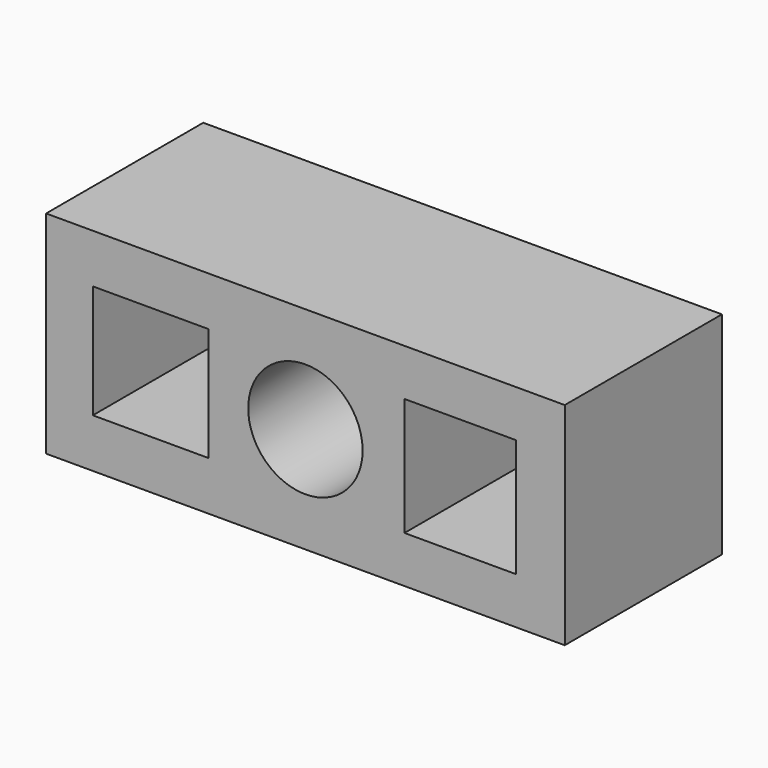
from build123d import *

# Parameters (mm, degrees)
F0_W     = 67.058742
F0_H     = 27.341548
F1_DEPTH = 25.4
F2_W     = 14.965903
F2_H     = 14.678094
F3_DEPTH = 25.4
F4_R     = 7.396664
F5_DEPTH = 25.4
F6_W     = 14.390292
F6_H     = 15.253704
F7_DEPTH = 25.4


with BuildPart() as f1:
    # F0 (on Front) → F1 (new body)
    with BuildSketch(Plane.XZ):
        Rectangle(F0_W, F0_H)
    extrude(amount=F1_DEPTH)

    # F2 (on face) → F3 (cut)
    with BuildSketch(Plane.XZ.offset(25.4)):
        with Locations((-20.002499, 0)):
            Rectangle(F2_W, F2_H)
    extrude(amount=-F3_DEPTH, mode=Mode.SUBTRACT)

    # F4 (on face) → F5 (cut)
    with BuildSketch(Plane.XZ.offset(25.4)):
        Circle(F4_R)
    extrude(amount=-F5_DEPTH, mode=Mode.SUBTRACT)

    # F6 (on face) → F7 (cut)
    with BuildSketch(Plane.XZ.offset(25.4)):
        with Locations((20.002501, 0)):
            Rectangle(F6_W, F6_H)
    extrude(amount=-F7_DEPTH, mode=Mode.SUBTRACT)


solid = f1.part
